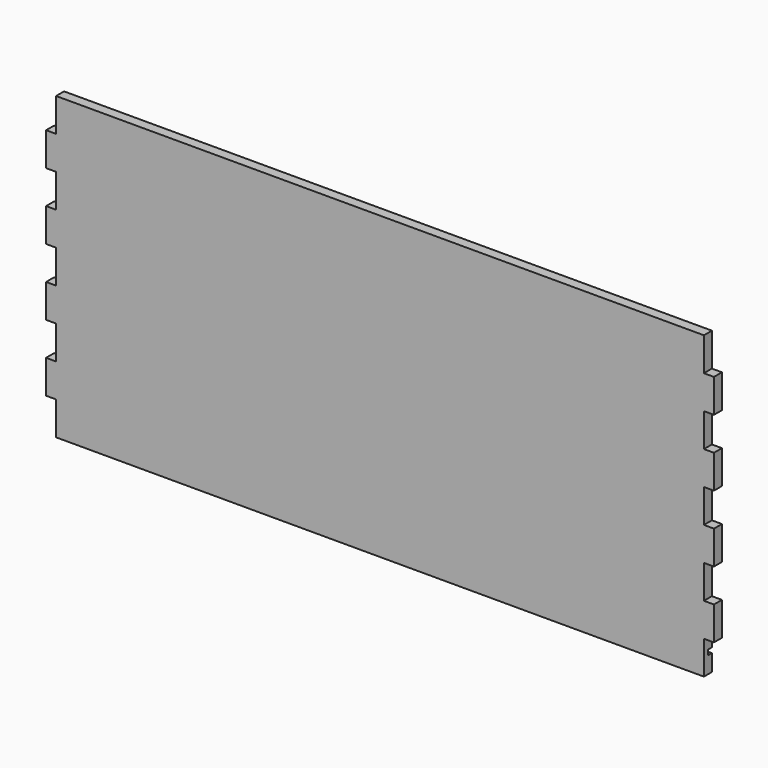
from build123d import *

# Parameters (mm, degrees)
F0_W     = 400
F0_H     = 6
F1_DEPTH = 180
F2_W     = 3
F2_H     = 3
F3_DEPTH = 400.001
F4_W     = 6
F4_H     = 20
F5_DEPTH = 6.001


with BuildPart() as f1:
    # F0 (on Top) → F1 (new body)
    with BuildSketch(Plane.XY):
        Rectangle(F0_W, F0_H)
    extrude(amount=F1_DEPTH)

    # F2 (on face) → F3 (cut, through all)
    with BuildSketch(Plane.YZ.offset(200)):
        with Locations((1.5, 11.5)):
            Rectangle(F2_W, F2_H)
    extrude(amount=-F3_DEPTH, mode=Mode.SUBTRACT)

    # F4 (on face) → F5 (cut, through all)
    with BuildSketch(Plane.XZ.offset(3)):
        with Locations((-197, 170)):
            Rectangle(F4_W, F4_H)
        with Locations((-197, 130)):
            Rectangle(F4_W, F4_H)
        with Locations((-197, 90)):
            Rectangle(F4_W, F4_H)
        with Locations((-197, 50)):
            Rectangle(F4_W, F4_H)
        with Locations((-197, 10)):
            Rectangle(F4_W, F4_H)
        with Locations((197, 10)):
            Rectangle(F4_W, F4_H)
        with Locations((197, 50)):
            Rectangle(F4_W, F4_H)
        with Locations((197, 90)):
            Rectangle(F4_W, F4_H)
        with Locations((197, 130)):
            Rectangle(F4_W, F4_H)
        with Locations((197, 170)):
            Rectangle(F4_W, F4_H)
        with Locations((197, 170)):
            Rectangle(F4_W, F4_H)
    extrude(amount=-F5_DEPTH, mode=Mode.SUBTRACT)


solid = f1.part
